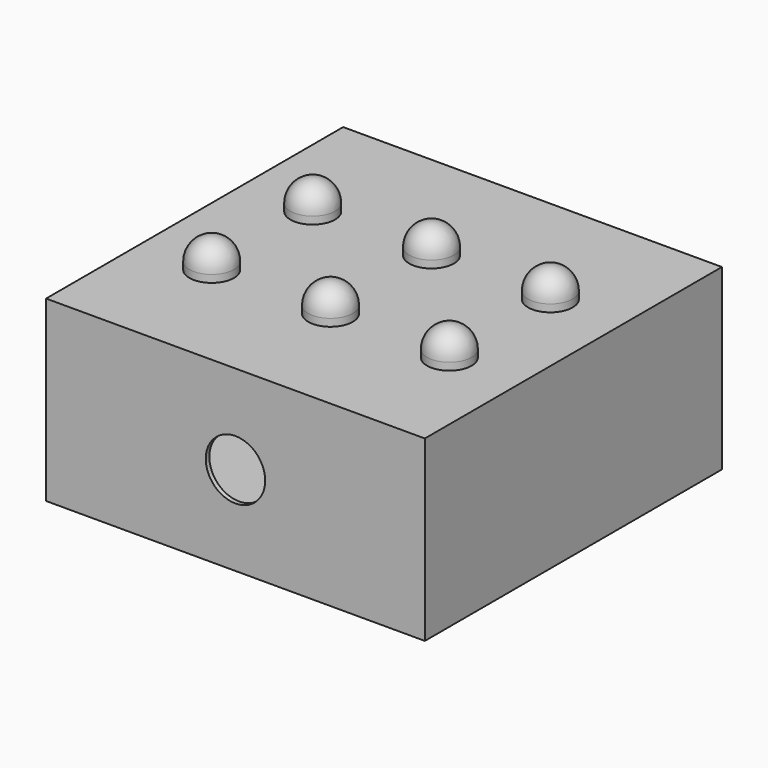
from build123d import *

# Parameters (mm, degrees)
F0_W     = 255
F0_H     = 250
F1_DEPTH = 117
F2_T     = -3
F3_W     = 255
F3_H     = 250
F4_DEPTH = 3
F5_R     = 20
F6_DEPTH = 25
F7_R     = 15
F8_DEPTH = 20
F9_R     = 15


with BuildPart() as f1:
    # F0 (on Top) → F1 (new body)
    with BuildSketch(Plane.XY):
        Rectangle(F0_W, F0_H)
    extrude(amount=F1_DEPTH)

    # F2
    f2_openings = [f1.faces().sort_by_distance(p)[0] for p in [
        (0, 0, 117),
    ]]
    offset(amount=F2_T, openings=f2_openings)

    # F3 (on face) → F4 (join)
    with BuildSketch(Plane.XY.offset(117)):
        Rectangle(F3_W, F3_H)
    extrude(amount=F4_DEPTH)

    # F5 (on face) → F6 (cut)
    with BuildSketch(Plane.XZ.offset(125)):
        with Locations((0, 60)):
            Circle(F5_R)
    extrude(amount=-F6_DEPTH, mode=Mode.SUBTRACT)

    # F7 (on face) → F8 (join)
    with BuildSketch(Plane.XY.offset(120)):
        with Locations((-80, 40)):
            Circle(F7_R)
        with Locations((0, 40)):
            Circle(F7_R)
        with Locations((80, 40)):
            Circle(F7_R)
        with Locations((-80, -45)):
            Circle(F7_R)
        with Locations((0, -45)):
            Circle(F7_R)
        with Locations((80, -45)):
            Circle(F7_R)
    extrude(amount=F8_DEPTH)

    # F9
    f9_edges = [f1.edges().sort_by_distance(p)[0] for p in [
        (-15, 40, 140),
        (-95, 40, 140),
        (65, 40, 140),
        (65, -45, 140),
        (-15, -45, 140),
        (-95, -45, 140),
    ]]
    fillet(f9_edges, radius=F9_R)


solid = f1.part
